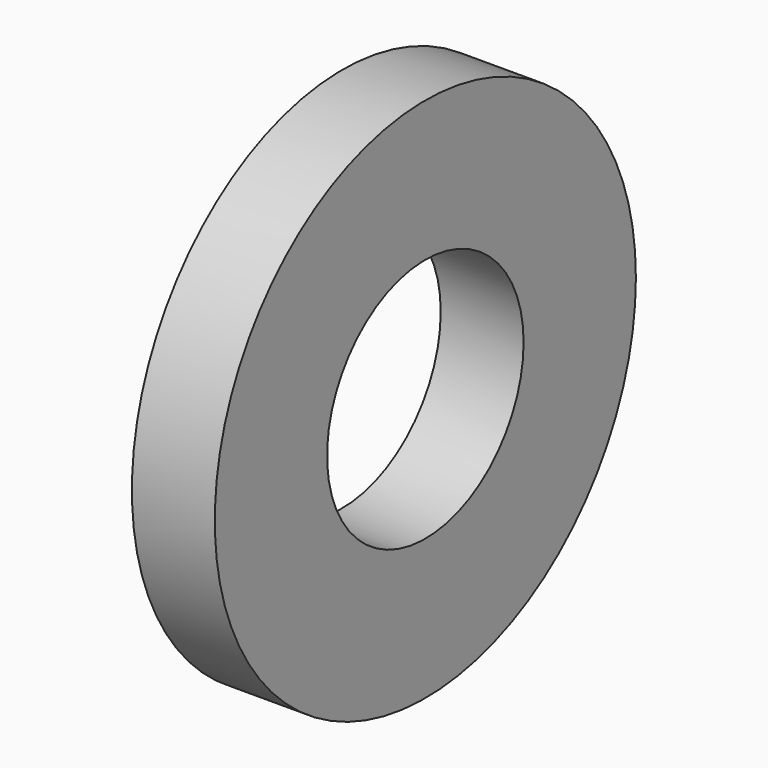
from build123d import *

# Parameters (mm, degrees)
F0_R     = 9.525
F1_DEPTH = 3
F2_R     = 4.445
F3_DEPTH = 3


with BuildPart() as f1:
    # F0 (on Right) → F1 (new body)
    with BuildSketch(Plane.YZ):
        Circle(F0_R)
    extrude(amount=F1_DEPTH)

    # F2 (on Right) → F3 (cut)
    with BuildSketch(Plane.YZ):
        Circle(F2_R)
    extrude(amount=F3_DEPTH, mode=Mode.SUBTRACT)


solid = f1.part
